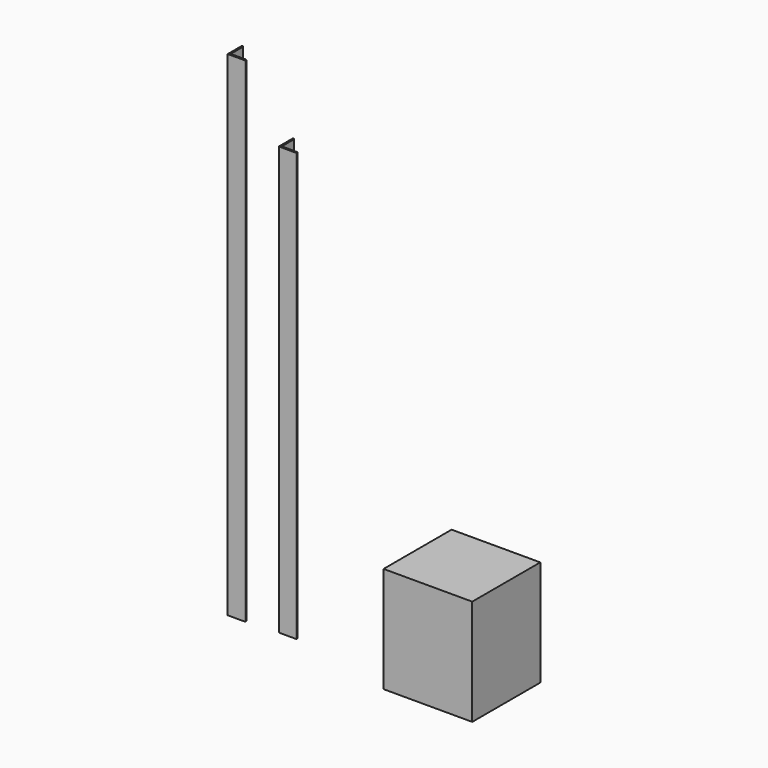
from build123d import *

# Parameters (mm, degrees)
F1_DEPTH = 1422.4
F2_DEPTH = 1231.9
F0_W     = 255.198478
F0_H     = 244.844355
F3_DEPTH = 304.8


with BuildPart() as f1:
    # F0 (on Top) → F1 (new body)
    with BuildSketch(Plane.XY):
        with BuildLine():
            Line((-25.4, 23.01875), (-25.4, -25.4))
            Line((-25.4, -25.4), (23.01875, -25.4))
            ThreePointArc((23.01875, -25.4), (24.702548, -24.702548), (25.4, -23.01875))
            ThreePointArc((25.4, -23.01875), (24.702548, -21.334952), (23.01875, -20.6375))
            Line((23.01875, -20.6375), (-18.25625, -20.6375))
            ThreePointArc((-18.25625, -20.6375), (-19.940048, -19.940048), (-20.6375, -18.25625))
            Line((-20.6375, -18.25625), (-20.6375, 23.01875))
            ThreePointArc((-20.6375, 23.01875), (-21.334952, 24.702548), (-23.01875, 25.4))
            ThreePointArc((-23.01875, 25.4), (-24.702548, 24.702548), (-25.4, 23.01875))
        make_face()
    extrude(amount=F1_DEPTH)


with BuildPart() as f2:
    # F0 (on Top) → F2 (new body)
    with BuildSketch(Plane.XY):
        with BuildLine():
            Line((116.799947, 29.100149), (116.799947, -19.318601))
            Line((116.799947, -19.318601), (165.218697, -19.318601))
            ThreePointArc((165.218697, -19.318601), (166.902495, -18.621149), (167.599947, -16.937351))
            ThreePointArc((167.599947, -16.937351), (166.902495, -15.253553), (165.218697, -14.556101))
            Line((165.218697, -14.556101), (123.943697, -14.556101))
            ThreePointArc((123.943697, -14.556101), (122.259899, -13.858649), (121.562447, -12.174851))
            Line((121.562447, -12.174851), (121.562447, 29.100149))
            ThreePointArc((121.562447, 29.100149), (120.864995, 30.783947), (119.181197, 31.481399))
            ThreePointArc((119.181197, 31.481399), (117.497399, 30.783947), (116.799947, 29.100149))
        make_face()
    extrude(amount=F2_DEPTH)


with BuildPart() as f3:
    # F0 (on Top) → F3 (new body)
    with BuildSketch(Plane.XY):
        with Locations((600.350976, 35.095419)):
            Rectangle(F0_W, F0_H)
    extrude(amount=F3_DEPTH)


solid = Compound([f1.part, f2.part, f3.part])
